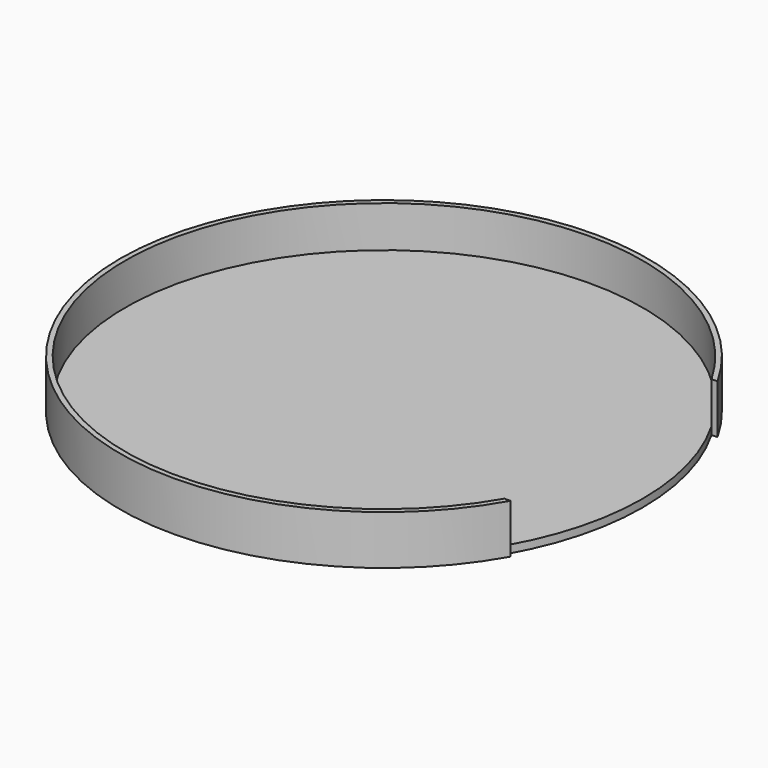
from build123d import *

# Parameters (mm, degrees)
F0_R          = 50
F1_DEPTH      = 1.5
F3_DEPTH      = 8
F3_DEPTH_BACK = 1.5


with BuildPart() as f1:
    # F0 (on Top) → F1 (new body)
    with BuildSketch(Plane.XY):
        with Locations((1.66043, 0)):
            Circle(F0_R)
    extrude(amount=F1_DEPTH)

    # F2 (on face) → F3 (join, two sides)
    with BuildSketch(Plane.XY.offset(1.5)) as f3_sk:
        with BuildLine():
            ThreePointArc((44.9617, -25), (-48.33957, 0), (44.9617, 25))
            Line((44.9617, 25), (46.112651, 25))
            ThreePointArc((46.112651, 25), (-49.33957, 0), (46.112651, -25))
            Line((46.112651, -25), (44.9617, -25))
        make_face()
    extrude(amount=F3_DEPTH)
    extrude(f3_sk.sketch, amount=-F3_DEPTH_BACK)


solid = f1.part
